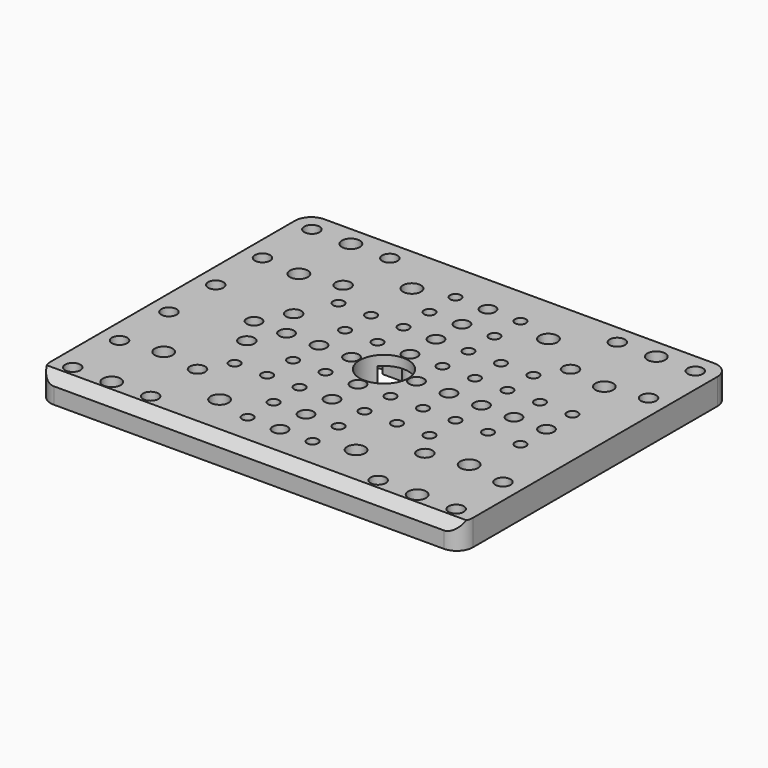
from build123d import *

# Parameters (mm, degrees)
SKETCH_W        = 130
SKETCH_H        = 104
PAD_DEPTH       = 8
SKETCH001_R     = 2.35
SKETCH001_R_2   = 2.75
POCKET_DEPTH    = 8.001
SKETCH003_R     = 4.6
SKETCH003_W     = 20
SKETCH003_H     = 5
POCKET001_DEPTH = 5
SKETCH002_R     = 1.7
SKETCH002_R_2   = 2.25
SKETCH002_R_3   = 7.5
POCKET002_DEPTH = 8.001
CHAMFER_SIZE    = 3
FILLET_R        = 5


with BuildPart() as part:
    # Sketch → Pad (new body)
    with BuildSketch(Plane.XY):
        Rectangle(SKETCH_W, SKETCH_H)
    extrude(amount=PAD_DEPTH)

    # Sketch001 → Pocket (cut, through all)
    with BuildSketch(Plane.XY.offset(8)):
        with Locations((-35, 46)):
            Circle(SKETCH001_R)
        with Locations((-59, 27)):
            Circle(SKETCH001_R)
        with Locations((-59, 46)):
            Circle(SKETCH001_R)
        with Locations((35, 46)):
            Circle(SKETCH001_R)
        with Locations((59, 28)):
            Circle(SKETCH001_R)
        with Locations((59, 46)):
            Circle(SKETCH001_R)
        with Locations((59, -28)):
            Circle(SKETCH001_R)
        with Locations((59, -46)):
            Circle(SKETCH001_R)
        with Locations((35, -46)):
            Circle(SKETCH001_R)
        with Locations((-59, -28)):
            Circle(SKETCH001_R)
        with Locations((-35, -46)):
            Circle(SKETCH001_R)
        with Locations((-59, -46)):
            Circle(SKETCH001_R)
        with Locations((-47, 46)):
            Circle(SKETCH001_R_2)
        with Locations((-47, 26)):
            Circle(SKETCH001_R_2)
        with Locations((47, 46)):
            Circle(SKETCH001_R_2)
        with Locations((47, 26)):
            Circle(SKETCH001_R_2)
        with Locations((-21, -37)):
            Circle(SKETCH001_R_2)
        with Locations((21, -37)):
            Circle(SKETCH001_R_2)
        with Locations((-21, 37)):
            Circle(SKETCH001_R_2)
        with Locations((21, 37)):
            Circle(SKETCH001_R_2)
        with Locations((47, -46)):
            Circle(SKETCH001_R_2)
        with Locations((47, -26)):
            Circle(SKETCH001_R_2)
        with Locations((-47, -26)):
            Circle(SKETCH001_R_2)
        with Locations((-47, -46)):
            Circle(SKETCH001_R_2)
        with Locations((-35, 28)):
            Circle(SKETCH001_R)
        with Locations((35, 28)):
            Circle(SKETCH001_R)
        with Locations((35, -28)):
            Circle(SKETCH001_R)
        with Locations((-35, -28)):
            Circle(SKETCH001_R)
        with Locations((-59, 9)):
            Circle(SKETCH001_R)
        with Locations((-59, -9)):
            Circle(SKETCH001_R)
        with Locations((-35, 9)):
            Circle(SKETCH001_R)
        with Locations((-35, -9)):
            Circle(SKETCH001_R)
    extrude(amount=-POCKET_DEPTH, mode=Mode.SUBTRACT)

    # Sketch003 → Pocket001 (cut)
    with BuildSketch(Plane(origin=(0, 0, 0), x_dir=(1, 0, 0), z_dir=(0, 0, -1))):
        with Locations((-47, 46)):
            Circle(SKETCH003_R)
        with Locations((47, -26)):
            Circle(SKETCH003_R)
        with Locations((47, 26)):
            Circle(SKETCH003_R)
        with Locations((47, 46)):
            Circle(SKETCH003_R)
        with Locations((-47, 26)):
            Circle(SKETCH003_R)
        with Locations((47, -46)):
            Circle(SKETCH003_R)
        with Locations((-47, -46)):
            Circle(SKETCH003_R)
        with Locations((-47, -26)):
            Circle(SKETCH003_R)
        with Locations((0, -7.279179)):
            Rectangle(SKETCH003_W, SKETCH003_H)
    extrude(amount=-POCKET001_DEPTH, mode=Mode.SUBTRACT)

    # Sketch002 → Pocket002 (cut, through all)
    with BuildSketch(Plane.XY.offset(8)):
        with Locations((-10, 10)):
            Circle(SKETCH002_R)
        with Locations((-20, 10)):
            Circle(SKETCH002_R)
        with Locations((-10, 0)):
            Circle(SKETCH002_R_2)
        with Locations((-20, 0)):
            Circle(SKETCH002_R_2)
        with Locations((-10, -10)):
            Circle(SKETCH002_R)
        with Locations((-20, -10)):
            Circle(SKETCH002_R)
        with Locations((-30, 0)):
            Circle(SKETCH002_R_2)
        with Locations((-40, 0)):
            Circle(SKETCH002_R_2)
        with Locations((10, 10)):
            Circle(SKETCH002_R)
        with Locations((10, -10)):
            Circle(SKETCH002_R)
        with Locations((20, -10)):
            Circle(SKETCH002_R)
        with Locations((20, 10)):
            Circle(SKETCH002_R)
        with Locations((30, 10)):
            Circle(SKETCH002_R)
        with Locations((40, 10)):
            Circle(SKETCH002_R)
        with Locations((30, -10)):
            Circle(SKETCH002_R)
        with Locations((40, -10)):
            Circle(SKETCH002_R)
        with Locations((-10, 20)):
            Circle(SKETCH002_R)
        with Locations((-20, 20)):
            Circle(SKETCH002_R)
        with Locations((10, 20)):
            Circle(SKETCH002_R)
        with Locations((20, 20)):
            Circle(SKETCH002_R)
        with Locations((20, -20)):
            Circle(SKETCH002_R)
        with Locations((10, -20)):
            Circle(SKETCH002_R)
        with Locations((-10, -20)):
            Circle(SKETCH002_R)
        with Locations((-20, -20)):
            Circle(SKETCH002_R)
        with Locations((-10, 30)):
            Circle(SKETCH002_R)
        with Locations((-10, 40)):
            Circle(SKETCH002_R)
        with Locations((10, 40)):
            Circle(SKETCH002_R)
        with Locations((10, 30)):
            Circle(SKETCH002_R)
        with Locations((10, -30)):
            Circle(SKETCH002_R)
        with Locations((-10, -30)):
            Circle(SKETCH002_R)
        with Locations((-10, -40)):
            Circle(SKETCH002_R)
        with Locations((10, -40)):
            Circle(SKETCH002_R)
        with Locations((0, 40)):
            Circle(SKETCH002_R_2)
        with Locations((0, 30)):
            Circle(SKETCH002_R_2)
        with Locations((0, 20)):
            Circle(SKETCH002_R_2)
        with Locations((0, 10)):
            Circle(SKETCH002_R_2)
        with Locations((0, -10)):
            Circle(SKETCH002_R_2)
        with Locations((0, -20)):
            Circle(SKETCH002_R_2)
        with Locations((0, -30)):
            Circle(SKETCH002_R_2)
        with Locations((0, -40)):
            Circle(SKETCH002_R_2)
        with Locations((10, 0)):
            Circle(SKETCH002_R_2)
        with Locations((20, 0)):
            Circle(SKETCH002_R_2)
        with Locations((30, 0)):
            Circle(SKETCH002_R_2)
        with Locations((40, 0)):
            Circle(SKETCH002_R_2)
        with Locations((50, 0)):
            Circle(SKETCH002_R_2)
        with Locations((50, 10)):
            Circle(SKETCH002_R)
        with Locations((50, -10)):
            Circle(SKETCH002_R)
        with Locations((-30, 20)):
            Circle(SKETCH002_R)
        with Locations((-30, -20)):
            Circle(SKETCH002_R)
        with Locations((30, 20)):
            Circle(SKETCH002_R)
        with Locations((30, -20)):
            Circle(SKETCH002_R)
        Circle(SKETCH002_R_3)
    extrude(amount=-POCKET002_DEPTH, mode=Mode.SUBTRACT)

    # Chamfer
    chamfer_edges = [part.edges().sort_by_distance(p)[0] for p in [
        (0, -52, 8),
    ]]
    chamfer(chamfer_edges, length=CHAMFER_SIZE)

    # Fillet
    fillet_edges = [part.edges().sort_by_distance(p)[0] for p in [
        (65, -52, 2.5),
        (65, 52, 4),
        (-65, -52, 2.5),
        (-65, 52, 4),
    ]]
    fillet(fillet_edges, radius=FILLET_R)


solid = part.part
